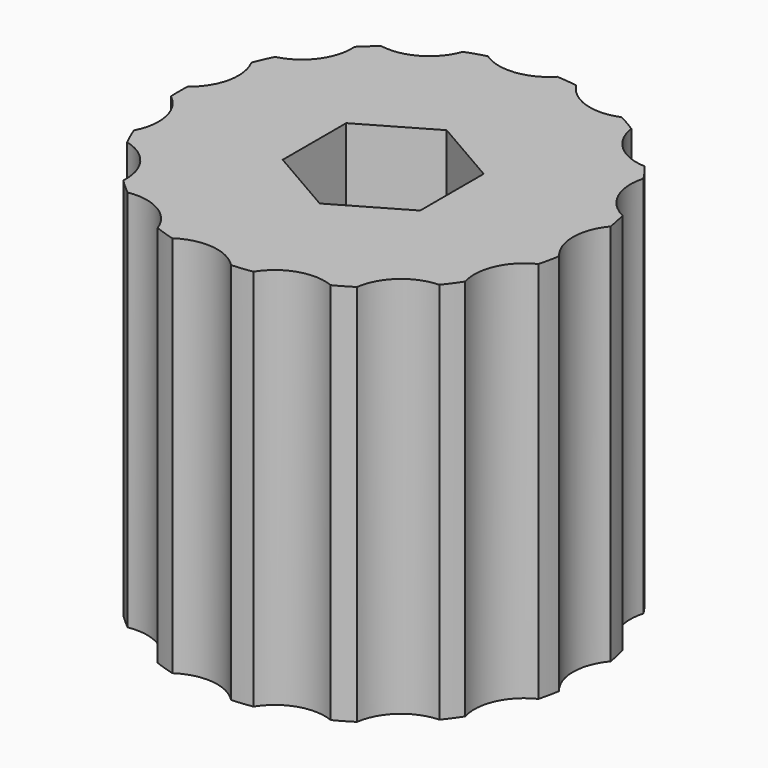
from build123d import *

# Parameters (mm, degrees)
SKETCH004_R           = 42.75
PAD005_DEPTH          = 80.15
SKETCH005_R           = 10.478477
POCKET004_DEPTH       = 370.285607
POLARPATTERN004_COUNT = 15
POCKET016_DEPTH       = 80.151


with BuildPart() as part:
    # Sketch004 → Pad005 (new body)
    with BuildSketch(Plane.XY):
        Circle(SKETCH004_R)
    extrude(amount=PAD005_DEPTH)

    # Sketch005 → Pocket004 (cut, through all)
    with BuildSketch(Plane.XY):
        with Locations((50.228477, 0)):
            Circle(SKETCH005_R)
    pocket004 = extrude(amount=POCKET004_DEPTH, mode=Mode.SUBTRACT)

    # PolarPattern004: Pocket004 ×15 about axis
    polarpattern004_axis = Axis((0, 0, 0), (0, 0, 1))
    for i in range(1, POLARPATTERN004_COUNT):
        add(pocket004.rotate(polarpattern004_axis, i * 360 / POLARPATTERN004_COUNT), mode=Mode.SUBTRACT)

    # Sketch031 → Pocket016 (cut, through all)
    with BuildSketch(Plane.XY):
        Polygon((14.3875, 8.306627), (0, 16.613254), (-14.3875, 8.306627), (-14.3875, -8.306627), (0, -16.613254), (14.3875, -8.306627), align=None)
    extrude(amount=POCKET016_DEPTH, mode=Mode.SUBTRACT)


with BuildPart() as part_1:
    # Body010 placement: moved
    add(part.part.moved(Location((-150, 0, 0))))


solid = part_1.part
